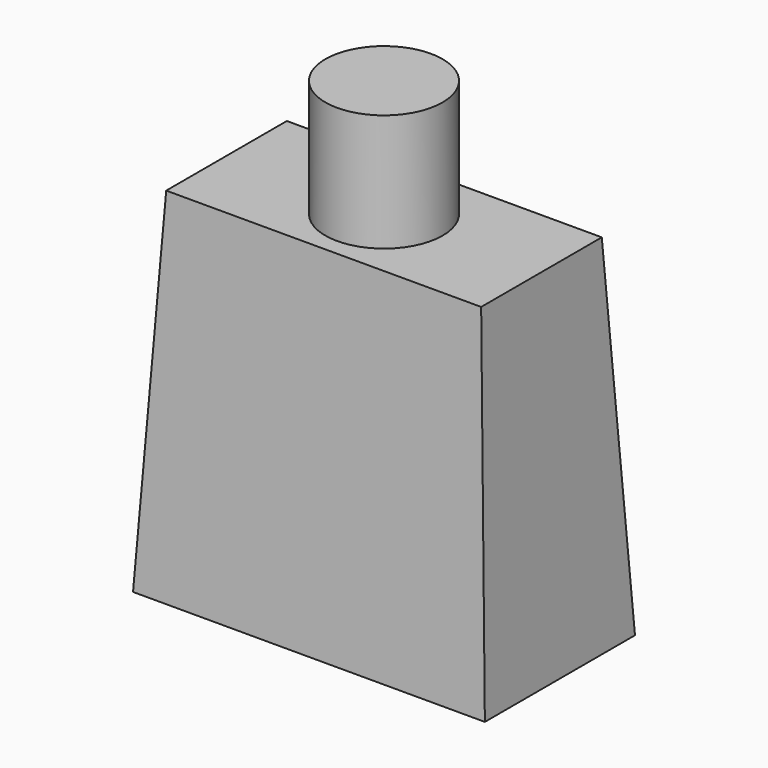
from build123d import *

# Parameters (mm, degrees)
F0_W     = 15
F0_H     = 8
F1_DEPTH = 15
F1_TAPER = 3
F2_R     = 2.5
F3_DEPTH = 5


with BuildPart() as f1:
    # F0 (on Top) → F1 (new body)
    with BuildSketch(Plane.XY):
        Rectangle(F0_W, F0_H)
    extrude(amount=F1_DEPTH, taper=F1_TAPER)

    # F2 (on face) → F3 (join)
    with BuildSketch(Plane.XY.offset(15)):
        Circle(F2_R)
    extrude(amount=F3_DEPTH)


solid = f1.part
